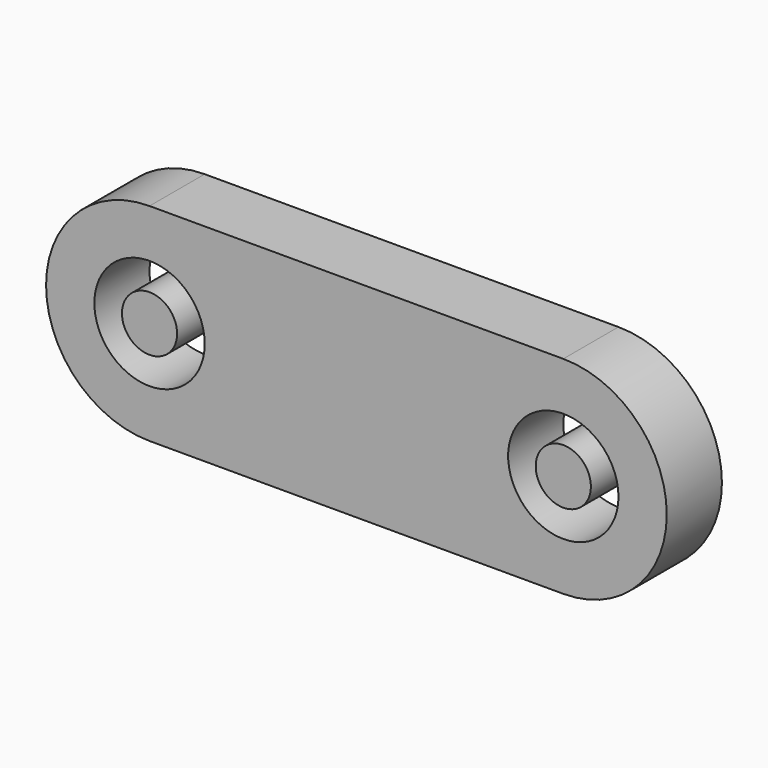
from build123d import *

# Parameters (mm, degrees)
F0_R     = 2
F1_DEPTH = 5
F0_R_2   = 4


with BuildPart() as f1:
    # F0 (on Front) → F1 (new body)
    with BuildSketch(Plane.XZ):
        Circle(F0_R)
    extrude(amount=F1_DEPTH)


with BuildPart() as f1b:
    # F0 (on Front) → F1, piece 2 (new body)
    with BuildSketch(Plane.XZ):
        with Locations((30, 0)):
            Circle(F0_R)
    extrude(amount=F1_DEPTH)


with BuildPart() as f1c:
    # F0 (on Front) → F1, piece 3 (new body)
    with BuildSketch(Plane.XZ):
        with BuildLine():
            Line((30, 7.5), (0, 7.5))
            ThreePointArc((0, 7.5), (-7.5, 0), (0, -7.5))
            Line((0, -7.5), (30, -7.5))
            ThreePointArc((30, -7.5), (37.5, 0), (30, 7.5))
        make_face()
        Circle(F0_R_2, mode=Mode.SUBTRACT)
        with Locations((30, 0)):
            Circle(F0_R_2, mode=Mode.SUBTRACT)
    extrude(amount=F1_DEPTH)


solid = Compound([f1.part, f1b.part, f1c.part])
